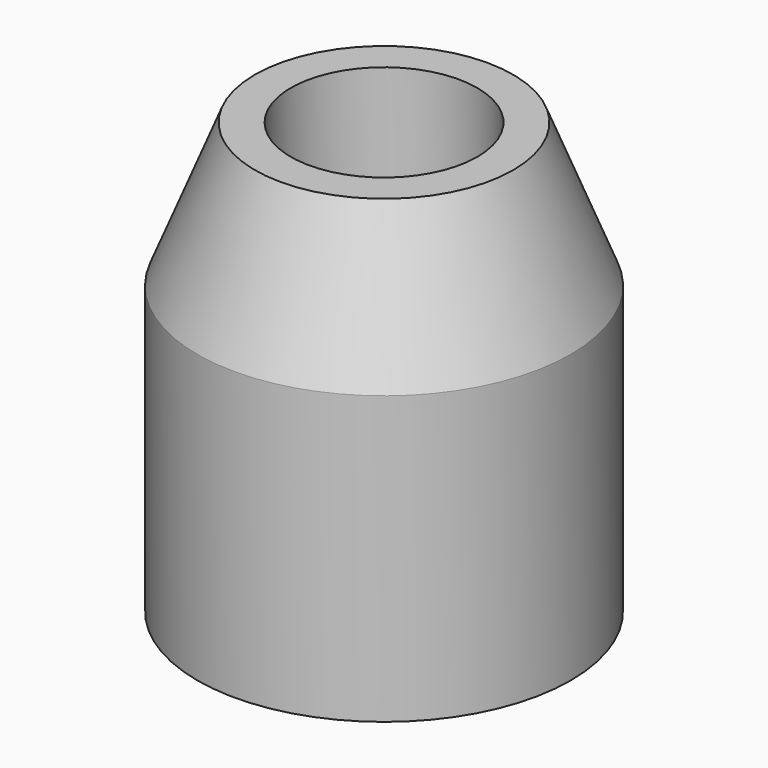
from build123d import *

# Parameters (mm, degrees)
SKETCH177_R     = 6.5
PAD072_DEPTH    = 20
SKETCH178_R     = 3.25
POCKET069_DEPTH = 20.001
SKETCH179_R     = 5.5
POCKET070_DEPTH = 15
SKETCH180_W     = 0.76168
SKETCH180_H     = 6.5
PAD073_DEPTH    = 2
SKETCH182_W     = 6.5
SKETCH182_H     = 2
POCKET071_DEPTH = 6.501
SKETCH183_R     = 7.331051
POCKET072_DEPTH = 5


with BuildPart() as part:
    # Sketch177 → Pad072 (new body)
    with BuildSketch(Plane.XY):
        Circle(SKETCH177_R)
    extrude(amount=PAD072_DEPTH)

    # Sketch178 (on Face3 of Pad072) → Pocket069 (cut, through all)
    with BuildSketch(Plane.XY.offset(20)):
        Circle(SKETCH178_R)
    extrude(amount=-POCKET069_DEPTH, mode=Mode.SUBTRACT)

    # Sketch179 (on Face2 of Pocket069) → Pocket070 (cut)
    with BuildSketch(Plane(origin=(0, 0, 0), x_dir=(1, 0, 0), z_dir=(0, 0, -1))):
        Circle(SKETCH179_R)
    extrude(amount=-POCKET070_DEPTH, mode=Mode.SUBTRACT)

    # Sketch180 (on Face3 of Pocket070) → Pad073 (join)
    with BuildSketch(Plane.XY.offset(20)):
        with Locations((0.38084, -3.25)):
            Rectangle(SKETCH180_W, SKETCH180_H)
    extrude(amount=PAD073_DEPTH)

    # Sketch181 (on Face9 of Pad073) → Groove001 (revolve, cut)
    with BuildSketch(Plane(origin=(0, 0, 0), x_dir=(0, -1, 0), z_dir=(-1, 0, 0))):
        Polygon((4.5, 20), (6.5, 20), (6.5, 15), align=None)
    revolve(axis=Axis((0, 0, 0), (0, 0, 1)), mode=Mode.SUBTRACT)

    # Sketch182 (on Face9 of Groove001) → Pocket071 (cut, through all)
    with BuildSketch(Plane(origin=(0, 0, 0), x_dir=(0, -1, 0), z_dir=(-1, 0, 0))):
        with Locations((3.25, 21)):
            Rectangle(SKETCH182_W, SKETCH182_H)
    extrude(amount=-POCKET071_DEPTH, mode=Mode.SUBTRACT)

    # Sketch183 (on Face1 of Pocket071) → Pocket072 (cut)
    with BuildSketch(Plane(origin=(0, 0, 0), x_dir=(1, 0, 0), z_dir=(0, 0, -1))):
        Circle(SKETCH183_R)
    extrude(amount=-POCKET072_DEPTH, mode=Mode.SUBTRACT)


solid = part.part
